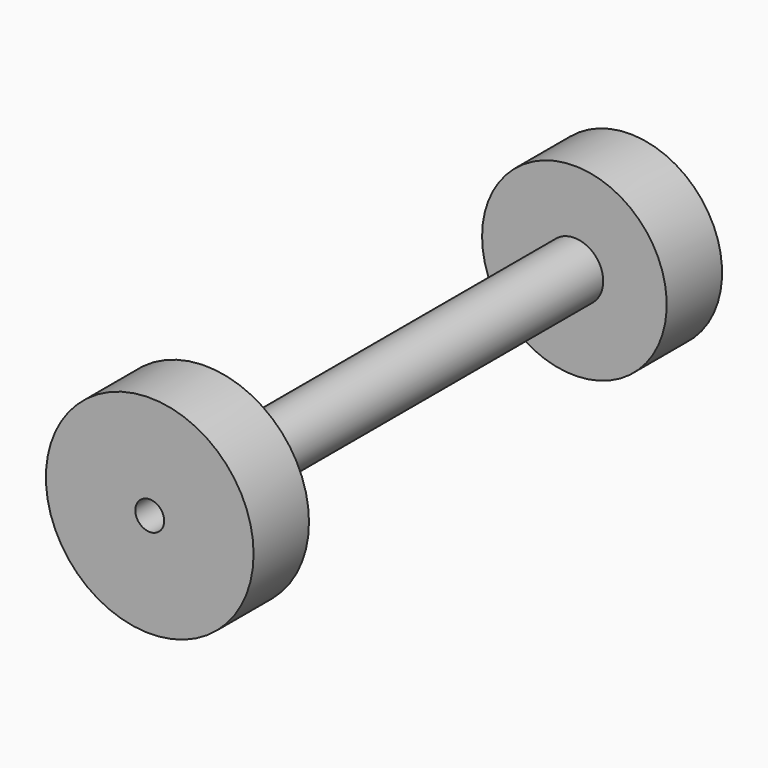
from build123d import *

# Parameters (mm, degrees)
F0_R     = 9
F1_DEPTH = 6
F2_R     = 2.5
F3_DEPTH = 46
F4_R     = 8
F4_R_2   = 2.5
F5_DEPTH = 6
F7_D     = 2.5
F7_DEPTH = 17.5
F7_TIP   = 0.7510757738


with BuildPart() as f1:
    # F0 (on Front) → F1 (new body)
    with BuildSketch(Plane.XZ):
        Circle(F0_R)
    extrude(amount=F1_DEPTH)

    # F2 (on Front) → F3 (join)
    with BuildSketch(Plane.XZ):
        Circle(F2_R)
    extrude(amount=-F3_DEPTH)

    # F4 (on face) → F5 (join)
    with BuildSketch(Plane(origin=(0, 46, 0), x_dir=(-1, 0, 0), z_dir=(0, 1, 0))):
        Circle(F4_R)
        Circle(F4_R_2, mode=Mode.SUBTRACT)
    extrude(amount=-F5_DEPTH)

    # F7
    with Locations(Plane.XZ.offset(6)):
        with Locations((0, 0)):
            Hole(F7_D / 2, depth=F7_DEPTH)
            with Locations((0, 0, -(F7_DEPTH + F7_TIP / 2))):  # 118° drill point
                Cone(0, F7_D / 2, F7_TIP, mode=Mode.SUBTRACT)


solid = f1.part
